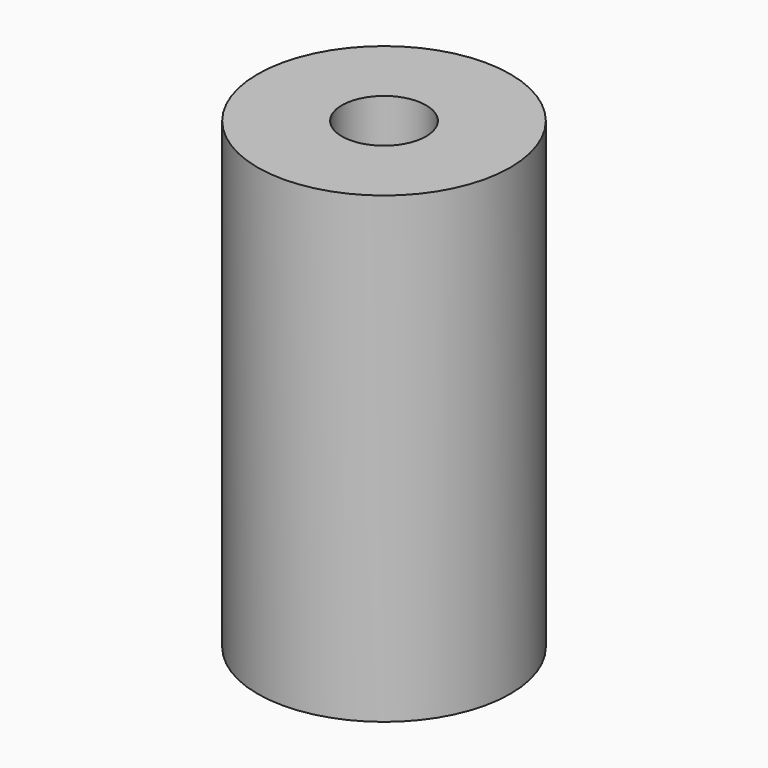
from build123d import *

# Parameters (mm, degrees)
SKETCH_R   = 3
SKETCH_R_2 = 1
PAD_DEPTH  = 11


with BuildPart() as part:
    # Sketch → Pad (new body)
    with BuildSketch(Plane.XY):
        Circle(SKETCH_R)
        Circle(SKETCH_R_2, mode=Mode.SUBTRACT)
    extrude(amount=PAD_DEPTH)


solid = part.part
